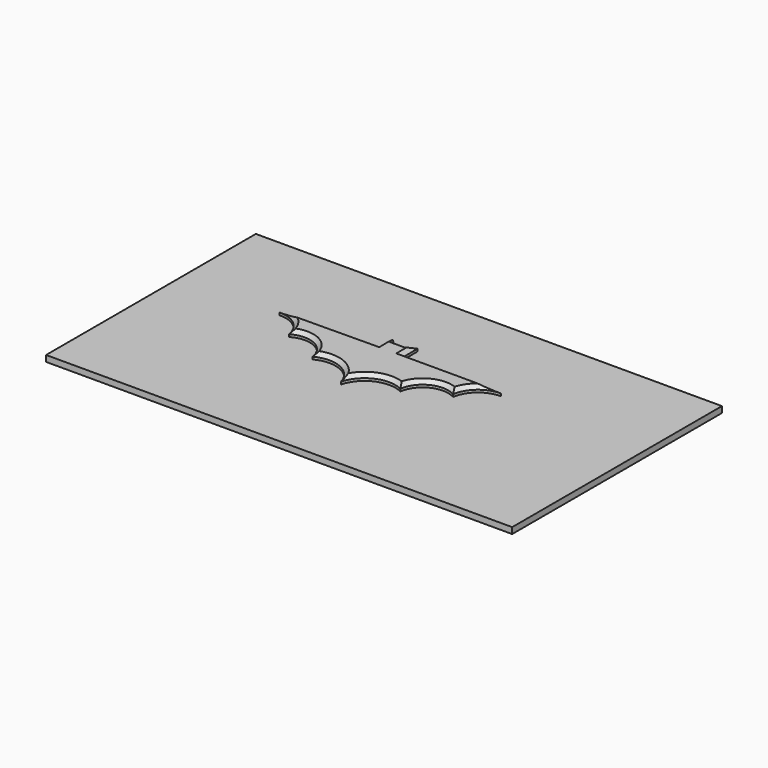
from build123d import *

# Parameters (mm, degrees)
F1_DEPTH = 6.35
F3_SIZE  = 3.81
F5_W     = 483.5504442453
F5_H     = 271.9896733761
F6_DEPTH = 6.35


with BuildPart() as f1:
    # F0 (on Top) → F1 (new body)
    with BuildSketch(Plane.XY):
        with BuildLine():
            Line((5.972245817, 21.453949254), (-0.377754183, 21.453949254))
            Line((-0.377754183, 21.453949254), (0, -55.885091424))
            ThreePointArc((0, -55.885091424), (17.6988021237, -34.8224985897), (45.2049598098, -35.3625938296))
            ThreePointArc((45.2049598098, -35.3625938296), (59.8006112137, -15.3096178799), (84.5859646797, -16.2267535925))
            ThreePointArc((84.5859646797, -16.2267535925), (94.5533505133, 1.8734329543), (113.922245817, 9.071448521))
            Line((113.922245817, 9.071448521), (12.322245817, 9.071448521))
            Line((12.322245817, 9.071448521), (12.322245817, 28.121448521))
            Line((12.322245817, 28.121448521), (5.972245817, 21.453949254))
        make_face()
    extrude(amount=F1_DEPTH)

    # F2: F1 across face


with BuildPart() as f1_1:
    add(f1.part)
    add(f1.part.mirror(Plane(origin=(-0.1888770915, -17.215571085, 3.175), x_dir=(0.0048843336, -0.9999880716, 0), z_dir=(-0.9999880716, -0.0048843336, 0))))

    # F3
    f3_edges = [f1_1.edges().sort_by_distance(p)[0] for p in [
        (12.322246, 18.596449, 6.35),
        (9.147246, 24.787699, 6.35),
        (2.797246, 21.453949, 6.35),
        (-3.552603, 21.422934, 6.35),
        (-9.934866, 24.694494, 6.35),
        (-13.049235, 18.472524, 6.35),
        (-63.753765, 8.451736, 6.35),
        (-95.113056, 0.947028, 6.35),
        (-60.194121, -15.895719, 6.35),
        (-17.903709, -34.996395, 6.35),
        (17.698802, -34.822499, 6.35),
        (59.800611, -15.309618, 6.35),
        (94.553351, 1.873433, 6.35),
        (63.122246, 9.071449, 6.35),
    ]]
    chamfer(f3_edges, length=F3_SIZE)


with BuildPart() as f6:
    # F5 (on offset) → F6 (new body)
    with BuildSketch(Plane.XY.offset(-25.4)):
        with Locations((0.0020489097, -0.003516674)):
            Rectangle(F5_W, F5_H)
    extrude(amount=F6_DEPTH)


solid = Compound([f1_1.part, f6.part])
